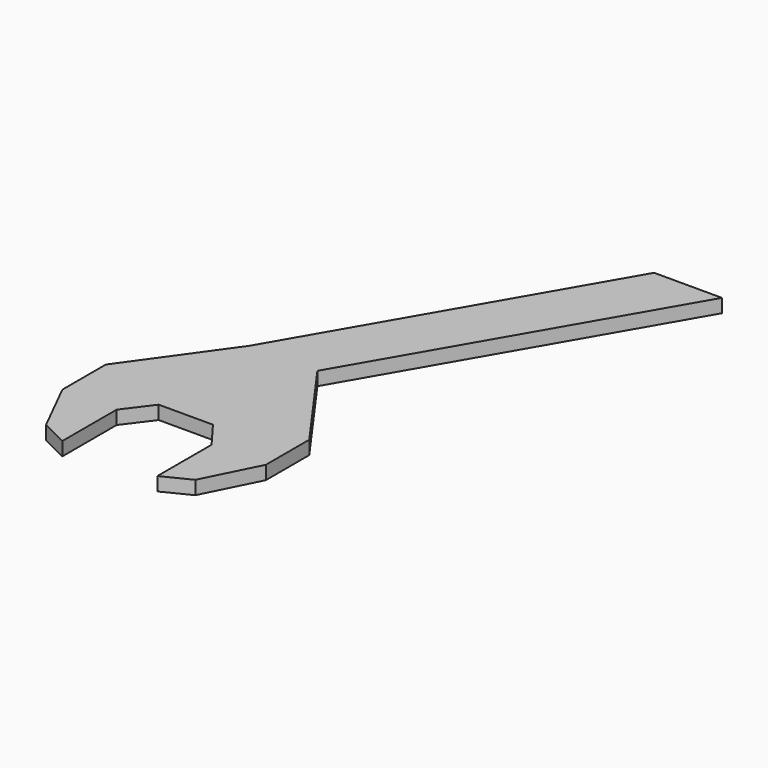
from build123d import *

# Parameters (mm, degrees)
F1_DEPTH = 10


with BuildPart() as f1:
    # F0 (on Top) → F1 (new body)
    with BuildSketch(Plane.XY):
        Polygon((-35, -20), (-20, 0), (20, 0), (35, -20), (35, -70), (55, -60), (75, -20), (75, 20), (25, 90), (150, 306.506351), (100, 306.506351), (-25, 90), (-75, 20), (-75, -20), (-55, -60), (-35, -70), align=None)
    extrude(amount=F1_DEPTH)


solid = f1.part
